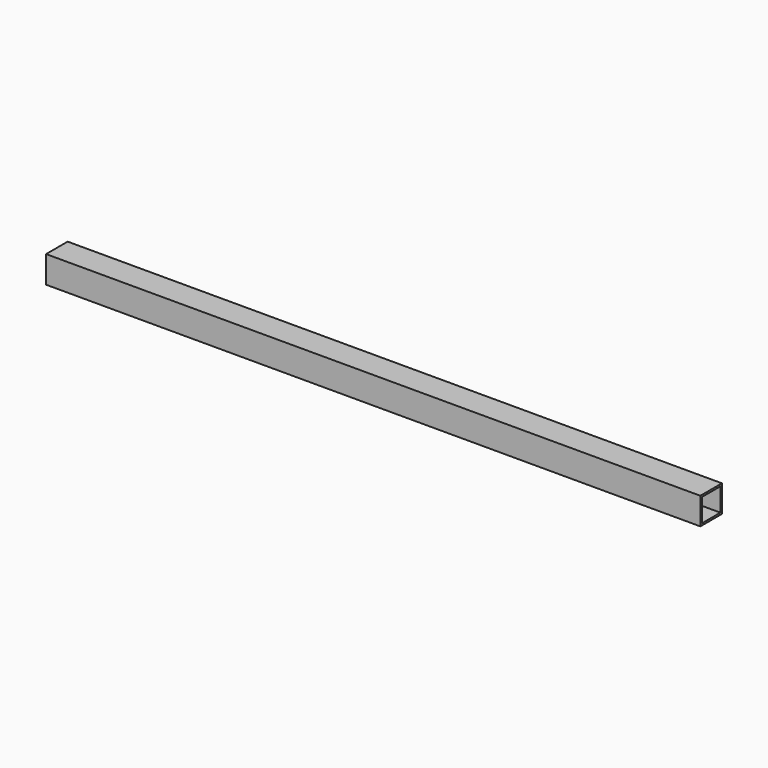
from build123d import *

# Parameters (mm, degrees)
SKETCH035_W     = 1423.8
SKETCH035_H     = 38.1
PAD017_DEPTH    = 38.1
SKETCH036_W     = 32.7
SKETCH036_H     = 32.7
POCKET014_DEPTH = 1423.801
SKETCH037_W     = 499.970518
SKETCH037_H     = 38.1
POCKET015_DEPTH = 38.101


with BuildPart() as part:
    # Sketch035 (on Face1 of Binder010) → Pad017 (new body)
    with BuildSketch(Plane.XZ.offset(38.1)):
        with Locations((750, 1038.1)):
            Rectangle(SKETCH035_W, SKETCH035_H)
    extrude(amount=-PAD017_DEPTH)

    # Sketch036 (on Face1 of Pad017) → Pocket014 (cut, through all)
    with BuildSketch(Plane.YZ.offset(1461.9)):
        with Locations((-19.05, 1038.1)):
            Rectangle(SKETCH036_W, SKETCH036_H)
    extrude(amount=-POCKET014_DEPTH, mode=Mode.SUBTRACT)

    # Sketch037 (on Face3 of Pocket014) → Pocket015 (cut, through all)
    with BuildSketch(Plane.XZ.offset(38.1)):
        with Locations((288.085259, 1038.1)):
            Rectangle(SKETCH037_W, SKETCH037_H)
    extrude(amount=-POCKET015_DEPTH, mode=Mode.SUBTRACT)


solid = part.part
